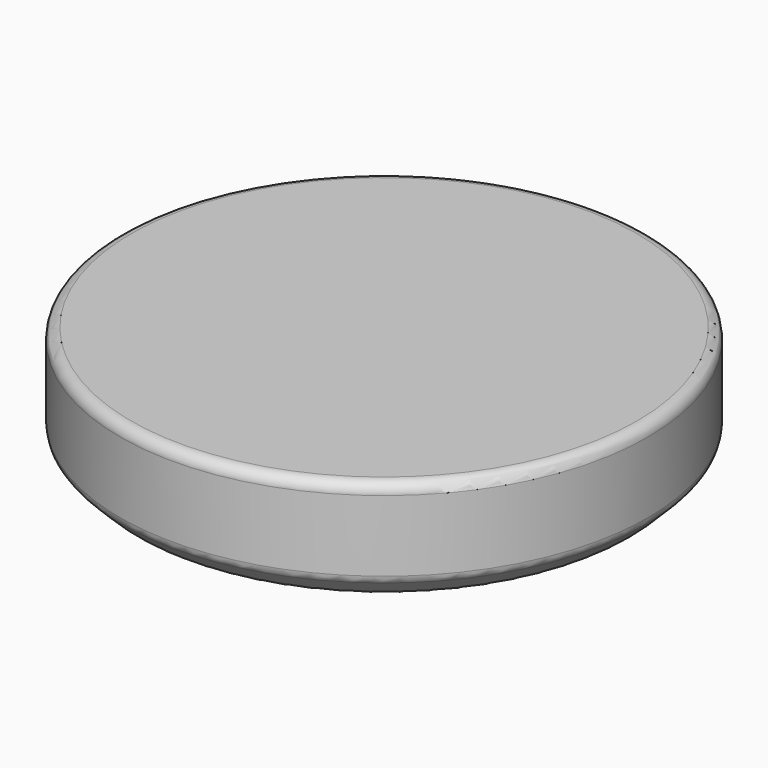
from build123d import *

# Parameters (mm, degrees)
F0_R     = 12.25
F1_DEPTH = 5
F2_SIZE  = 1
F3_R     = 0.5


with BuildPart() as f1:
    # F0 (on Top) → F1 (new body)
    with BuildSketch(Plane.XY):
        Circle(F0_R)
    extrude(amount=F1_DEPTH)

    # F2
    f2_edges = [f1.edges().sort_by_distance(p)[0] for p in [
        (-12.25, 0, 0),
    ]]
    chamfer(f2_edges, length=F2_SIZE)

    # F3
    f3_edges = [f1.edges().sort_by_distance(p)[0] for p in [
        (-12.25, 0, 5),
        (-12.25, 0, 1),
        (-11.25, 0, 0),
    ]]
    fillet(f3_edges, radius=F3_R)


solid = f1.part
